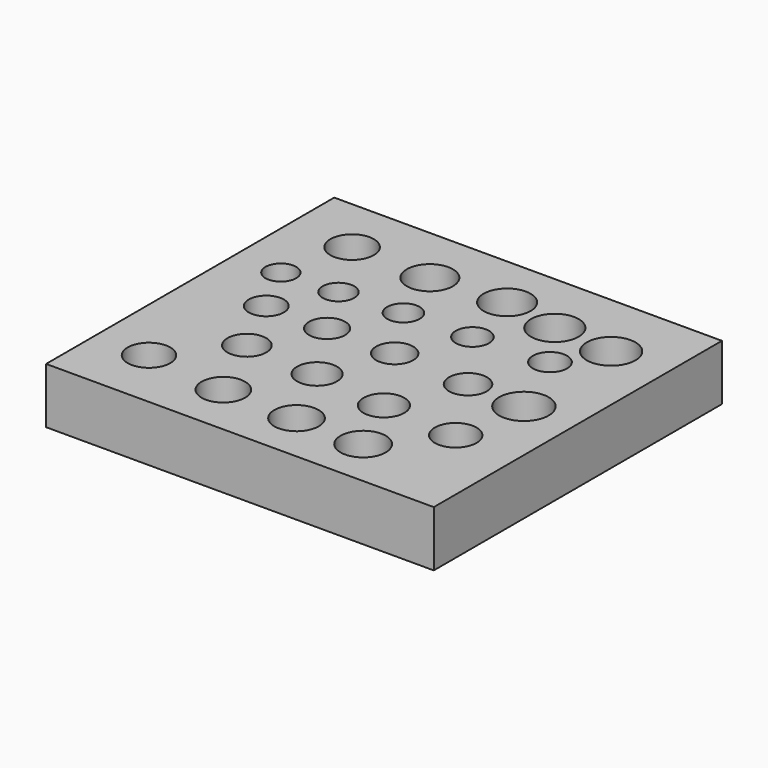
from build123d import *

# Parameters (mm, degrees)
F10_W     = 176.685878
F10_H     = 164.152801
F11_DEPTH = 25.4
F7_R      = 9.9
F12_DEPTH = 25.4
F8_R      = 10.5
F13_DEPTH = 25.4
F9_R      = 10.7
F14_DEPTH = 25.4
F0_R      = 7
F15_DEPTH = 25.4
F1_R      = 7.2
F16_DEPTH = 25.4
F3_R      = 7.6
F17_DEPTH = 25.4
F2_R      = 7.4
F18_DEPTH = 25.4
F4_R      = 7.8
F19_DEPTH = 25.4
F5_R      = 8
F5_R_2    = 8.225
F5_R_3    = 8.45
F5_R_4    = 8.65
F20_DEPTH = 25.4
F6_R      = 8.85
F6_R_2    = 9.1
F6_R_3    = 9.3
F6_R_4    = 9.5
F6_R_5    = 9.7
F6_R_6    = 9.9
F6_R_7    = 10.1
F6_R_8    = 10.3
F21_DEPTH = 25.4
F22_R     = 10.9
F23_DEPTH = 25.4
F24_R     = 11.1
F25_DEPTH = 25.4
F26_R     = 11.3
F27_DEPTH = 25.4


with BuildPart() as f11:
    # F10 (on Top) → F11 (new body)
    with BuildSketch(Plane.XY):
        with Locations((2.625104, 5.200521)):
            Rectangle(F10_W, F10_H)
    extrude(amount=-F11_DEPTH)

    # F7 (on Top) → F12 (cut)
    with BuildSketch(Plane.XY):
        with Locations((-56.892078, 61.436351)):
            Circle(F7_R)
    extrude(amount=-F12_DEPTH, mode=Mode.SUBTRACT)

    # F8 (on Top) → F13 (cut)
    with BuildSketch(Plane.XY):
        with Locations((-20.550484, 60.300212)):
            Circle(F8_R)
    extrude(amount=-F13_DEPTH, mode=Mode.SUBTRACT)

    # F9 (on Top) → F14 (cut)
    with BuildSketch(Plane.XY):
        with Locations((12.775544, 62.653594)):
            Circle(F9_R)
    extrude(amount=-F14_DEPTH, mode=Mode.SUBTRACT)

    # F0 (on Top) → F15 (cut)
    with BuildSketch(Plane.XY):
        with Locations((-64.470865, 30.299246)):
            Circle(F0_R)
    extrude(amount=-F15_DEPTH, mode=Mode.SUBTRACT)

    # F1 (on Top) → F16 (cut)
    with BuildSketch(Plane.XY):
        with Locations((-39.056268, 31.34875)):
            Circle(F1_R)
    extrude(amount=-F16_DEPTH, mode=Mode.SUBTRACT)

    # F3 (on Top) → F17 (cut)
    with BuildSketch(Plane.XY):
        with Locations((19.813331, 34.10523)):
            Circle(F3_R)
    extrude(amount=-F17_DEPTH, mode=Mode.SUBTRACT)

    # F2 (on Top) → F18 (cut)
    with BuildSketch(Plane.XY):
        with Locations((-10.968515, 33.251639)):
            Circle(F2_R)
    extrude(amount=-F18_DEPTH, mode=Mode.SUBTRACT)

    # F4 (on Top) → F19 (cut)
    with BuildSketch(Plane.XY):
        with Locations((53.448476, 36.223363)):
            Circle(F4_R)
    extrude(amount=-F19_DEPTH, mode=Mode.SUBTRACT)

    # F5 (on Top) → F20 (cut)
    with BuildSketch(Plane.XY):
        with Locations((-52.422121, 6.954235)):
            Circle(F5_R)
        with Locations((-24.704576, 6.954235)):
            Circle(F5_R_2)
        with Locations((6.08955, 6.954235)):
            Circle(F5_R_3)
        with Locations((41.318376, 4.69443)):
            Circle(F5_R_4)
    extrude(amount=-F20_DEPTH, mode=Mode.SUBTRACT)

    # F6 (on Top) → F21 (cut)
    with BuildSketch(Plane.XY):
        with Locations((-38.879134, -21.031195)):
            Circle(F6_R)
        with Locations((-5.56421, -22.705894)):
            Circle(F6_R_2)
        with Locations((28.14305, -26.74753)):
            Circle(F6_R_3)
        with Locations((62.45793, -28.751563)):
            Circle(F6_R_4)
        with Locations((-61.273046, -48.801046)):
            Circle(F6_R_5)
        with Locations((-24.030989, -53.006683)):
            Circle(F6_R_6)
        with Locations((10.005432, -53.862374)):
            Circle(F6_R_7)
        with Locations((41.005138, -54.6447)):
            Circle(F6_R_8)
    extrude(amount=-F21_DEPTH, mode=Mode.SUBTRACT)

    # F22 (on face) → F23 (cut)
    with BuildSketch(Plane.XY):
        with Locations((38.323849, 57.883684)):
            Circle(F22_R)
    extrude(amount=-F23_DEPTH, mode=Mode.SUBTRACT)

    # F24 (on face) → F25 (cut)
    with BuildSketch(Plane.XY):
        with Locations((65.247305, 56.305163)):
            Circle(F24_R)
    extrude(amount=-F25_DEPTH, mode=Mode.SUBTRACT)

    # F26 (on face) → F27 (cut)
    with BuildSketch(Plane.XY):
        with Locations((67.508779, 3.787257)):
            Circle(F26_R)
    extrude(amount=-F27_DEPTH, mode=Mode.SUBTRACT)


solid = f11.part
